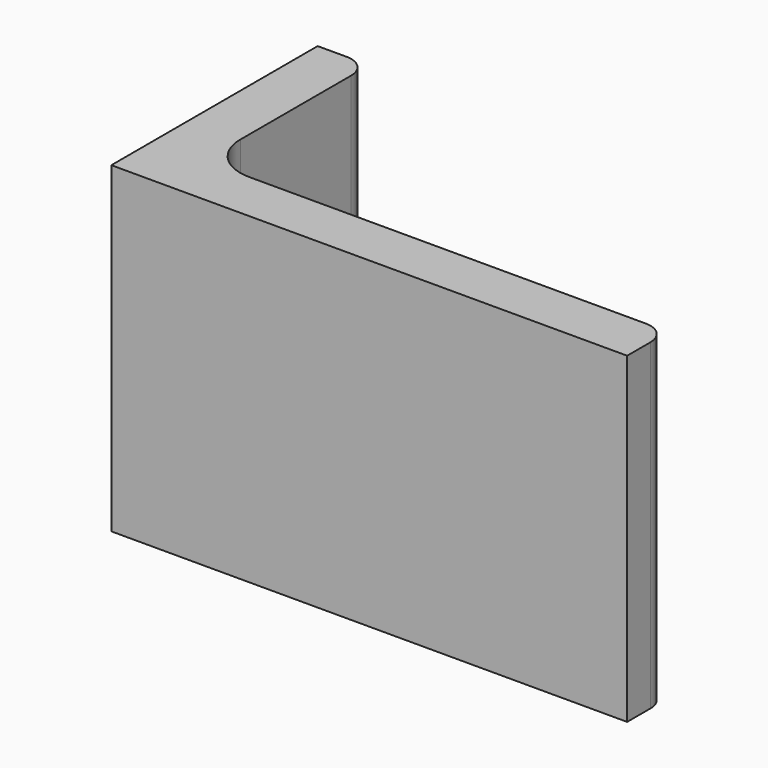
from build123d import *

# Parameters (mm, degrees)
EXTRUDE_DEPTH = 50


with BuildPart() as part:
    # Sketch → Extrude (new body)
    with BuildSketch(Plane.XY):
        with BuildLine():
            Line((0, 0), (80, 0))
            Line((80, 0), (80, 4.5))
            ThreePointArc((80, 4.5), (78.974874, 6.974874), (76.5, 8))
            Line((76.5, 8), (15, 8))
            ThreePointArc((8, 15), (10.050253, 10.050253), (15, 8))
            Line((8, 36.5), (8, 15))
            ThreePointArc((8, 36.5), (6.974874, 38.974874), (4.5, 40))
            Line((0, 40), (4.5, 40))
            Line((0, 0), (0, 40))
        make_face()
    extrude(amount=EXTRUDE_DEPTH)


solid = part.part
